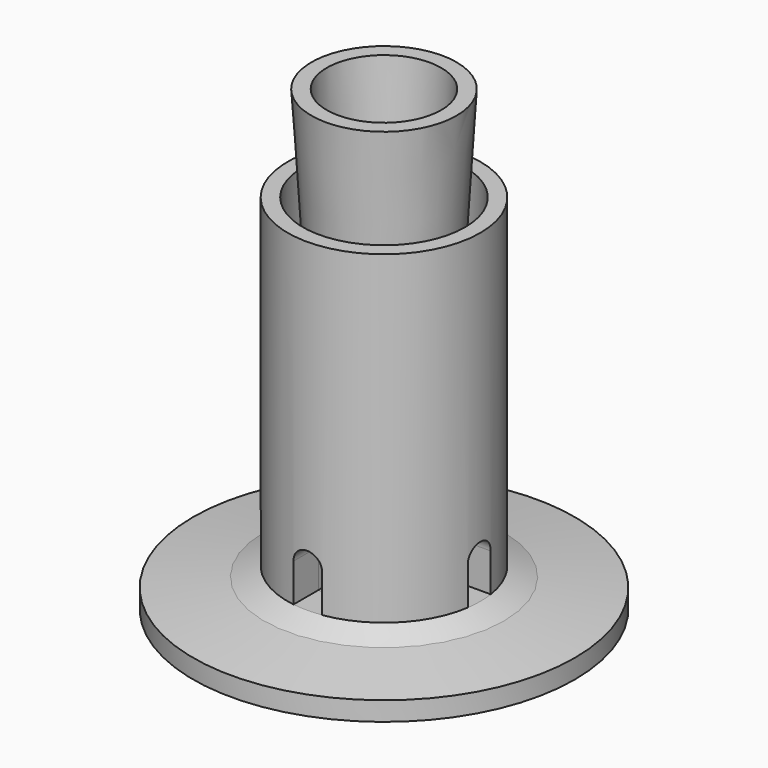
from build123d import *

# Parameters (mm, degrees)
F3_DEPTH  = 10
F4_ANGLE  = 90
F9_DEPTH  = 12.5
F10_ANGLE = 90


with BuildPart() as f1:
    # F0 (on Front) → F1 (revolve)
    with BuildSketch(Plane.XZ):
        Polygon((0, 4), (0, 0), (20, 0), (20, 2), (4.980952, 4), (7.6, 48), (6, 48), (3.380952, 4), align=None)
    revolve(axis=Axis((0, 0, 2), (0, 0, -1)))


with BuildPart() as f3:
    # F2 (on Front) → F3 (new body, symmetric)
    with BuildSketch(Plane.XZ):
        with BuildLine():
            Line((-1.5, 4), (1.5, 4))
            Line((1.5, 4), (1.5, 8))
            ThreePointArc((1.5, 8), (0, 9.5), (-1.5, 8))
            Line((-1.5, 8), (-1.5, 4))
        make_face()
    extrude(amount=F3_DEPTH, both=True)


with BuildPart() as f4_1:
    # F4: copy of F3
    add(f3.part.rotate(Axis((0, 0, 48), (0, 0, -1)), F4_ANGLE))


with BuildPart() as f1_1:
    add(f1.part)

    # F5: cut F3, F4_1
    add(f3.part, mode=Mode.SUBTRACT)
    add(f4_1.part, mode=Mode.SUBTRACT)


with BuildPart() as f7:
    # F6 (on Front) → F7 (revolve)
    with BuildSketch(Plane.XZ):
        Polygon((0, 4), (0, 0), (15, 0), (15, 2), (10.1, 4), (10.1, 38), (8.5, 38), (8.5, 23), (3, 23), (2.5, 4), align=None)
    revolve(axis=Axis((0, 0, 2), (0, 0, 1)))


with BuildPart() as f9:
    # F8 (on Front) → F9 (new body, symmetric)
    with BuildSketch(Plane.XZ):
        with BuildLine():
            ThreePointArc((1.5, 8), (0, 9.5), (-1.5, 8))
            Line((-1.5, 8), (-1.5, 4))
            Line((-1.5, 4), (1.5, 4))
            Line((1.5, 4), (1.5, 8))
        make_face()
    extrude(amount=F9_DEPTH, both=True)


with BuildPart() as f10_1:
    # F10: copy of F9
    add(f9.part.rotate(Axis((0, 0, 38), (0, 0, 1)), F10_ANGLE))


with BuildPart() as f7_1:
    add(f7.part)

    # F11: cut F9, F10_1
    add(f9.part, mode=Mode.SUBTRACT)
    add(f10_1.part, mode=Mode.SUBTRACT)


with BuildPart() as f13:
    # F12 (on Front) → F13 (revolve)
    with BuildSketch(Plane.XZ):
        with BuildLine():
            Line((0, 4), (0, 0))
            Line((0, 0), (15, 0))
            Line((15, 0), (15, 2))
            Line((15, 2), (6.9, 4))
            Line((6.9, 4), (6.9, 32))
            Line((6.9, 32), (5.3, 32))
            Line((5.3, 32), (5.3, 17))
            Line((5.3, 17), (4.277901, 17))
            ThreePointArc((4.277901, 17), (2.871566, 16.422048), (2.278025, 15.022221))
            Line((2.278025, 15.022221), (2.155556, 4))
            Line((2.155556, 4), (0, 4))
        make_face()
    revolve(axis=Axis((0, 0, 2), (0, 0, 1)))

    # F14: cut F9, F10_1
    add(f9.part, mode=Mode.SUBTRACT)
    add(f10_1.part, mode=Mode.SUBTRACT)


solid = Compound([f1_1.part, f7_1.part, f13.part])
